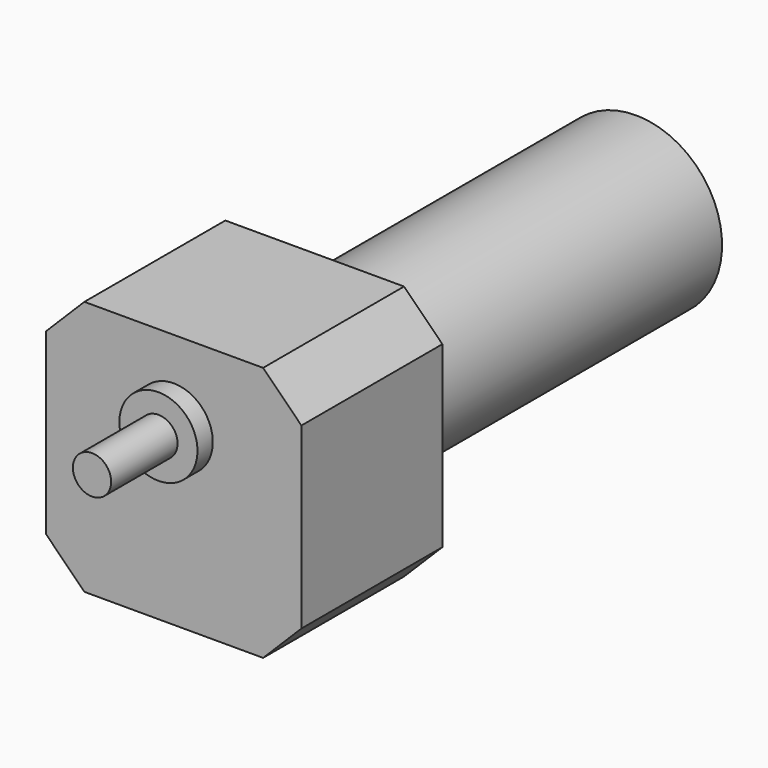
from build123d import *

# Parameters (mm, degrees)
F0_R     = 9.525
F1_DEPTH = 41.275
F2_R     = 19.431
F3_DEPTH = 9.525
F4_W     = 127
F4_H     = 127
F5_DEPTH = 87.63
F6_SIZE  = 19.05
F7_R     = 42.926
F8_DEPTH = 199.644


with BuildPart() as f1:
    # F0 (on Front) → F1 (new body)
    with BuildSketch(Plane.XZ):
        Circle(F0_R)
    extrude(amount=F1_DEPTH)

    # F2 (on face) → F3 (join)
    with BuildSketch(Plane(origin=(0, 0, 0), x_dir=(-1, 0, 0), z_dir=(0, 1, 0))):
        Circle(F2_R)
    extrude(amount=F3_DEPTH)

    # F4 (on face) → F5 (join)
    with BuildSketch(Plane(origin=(0, 9.525, 0), x_dir=(-1, 0, 0), z_dir=(0, 1, 0))):
        with Locations((0, -22.86)):
            Rectangle(F4_W, F4_H)
    extrude(amount=F5_DEPTH)

    # F6
    f6_edges = [f1.edges().sort_by_distance(p)[0] for p in [
        (63.5, 53.34, 40.64),
        (-63.5, 53.34, 40.64),
        (63.5, 53.34, -86.36),
        (-63.5, 53.34, -86.36),
    ]]
    chamfer(f6_edges, length=F6_SIZE)

    # F7 (on face) → F8 (join)
    with BuildSketch(Plane(origin=(0, 97.155, 0), x_dir=(-1, 0, 0), z_dir=(0, 1, 0))):
        with Locations((0, -22.86)):
            Circle(F7_R)
    extrude(amount=F8_DEPTH)


solid = f1.part
